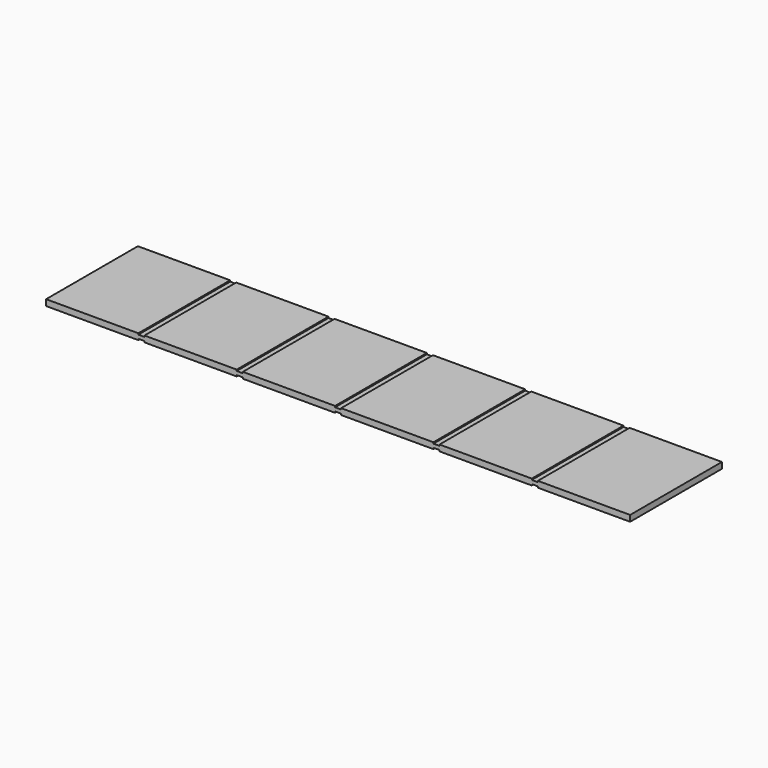
from build123d import *

# Parameters (mm, degrees)
F0_W     = 1527.175
F0_H     = 15.875
F1_DEPTH = 300
F2_W     = 15.875
F2_H     = 300
F3_DEPTH = 3.175
F4_W     = 15.875
F4_H     = 300
F5_DEPTH = 3.175


with BuildPart() as f1:
    # F0 (on Front) → F1 (new body)
    with BuildSketch(Plane.XZ):
        with Locations((1.828803, -34.980267)):
            Rectangle(F0_W, F0_H)
    extrude(amount=F1_DEPTH)

    # F2 (on face) → F3 (cut)
    with BuildSketch(Plane(origin=(0, 0, -42.917767), x_dir=(1, 0, 0), z_dir=(0, 0, -1))):
        with Locations((-255.346197, 150)):
            Rectangle(F2_W, F2_H)
        with Locations((1.828803, 150)):
            Rectangle(F2_W, F2_H)
        with Locations((-512.521197, 150)):
            Rectangle(F2_W, F2_H)
        with Locations((259.003803, 150)):
            Rectangle(F2_W, F2_H)
        with Locations((516.178803, 150)):
            Rectangle(F2_W, F2_H)
    extrude(amount=-F3_DEPTH, mode=Mode.SUBTRACT)

    # F4 (on face) → F5 (cut)
    with BuildSketch(Plane.XY.offset(-27.042767)):
        with Locations((-512.521197, -150)):
            Rectangle(F4_W, F4_H)
        with Locations((-255.346197, -150)):
            Rectangle(F4_W, F4_H)
        with Locations((1.828803, -150)):
            Rectangle(F4_W, F4_H)
        with Locations((259.003803, -150)):
            Rectangle(F4_W, F4_H)
        with Locations((516.178803, -150)):
            Rectangle(F4_W, F4_H)
    extrude(amount=-F5_DEPTH, mode=Mode.SUBTRACT)


solid = f1.part
